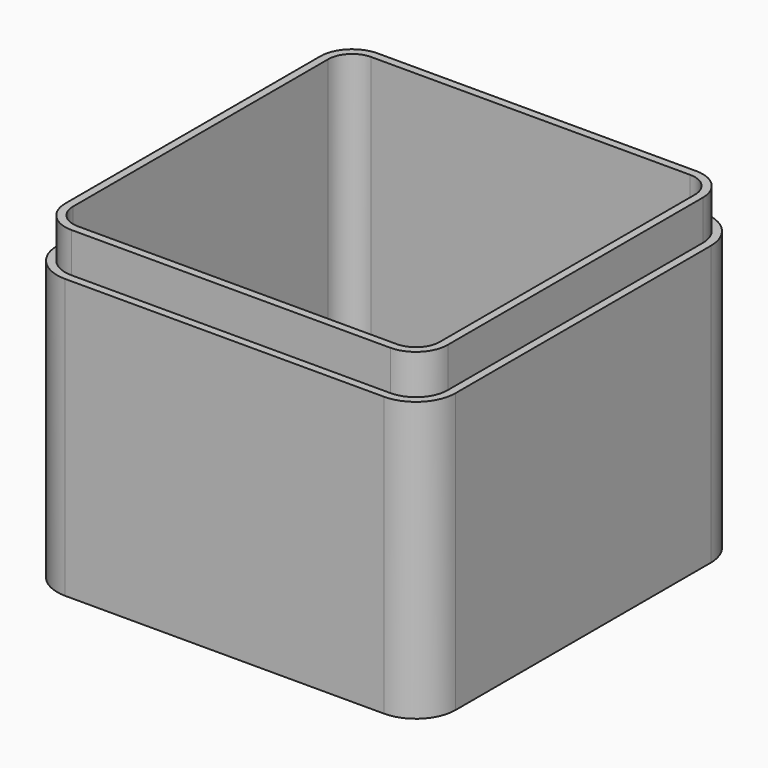
from build123d import *

# Parameters (mm, degrees)
SKETCH_W     = 100
SKETCH_H     = 100
PAD_DEPTH    = 80
FILLET_R     = 10
THICKNESS_T  = -4
POCKET_DEPTH = 10


with BuildPart() as part:
    # Sketch → Pad (new body)
    with BuildSketch(Plane.XY):
        with Locations((50, 50)):
            Rectangle(SKETCH_W, SKETCH_H)
    extrude(amount=PAD_DEPTH)

    # Fillet
    fillet_edges = [part.edges().sort_by_distance(p)[0] for p in [
        (0, 0, 40),
        (100, 0, 40),
        (100, 100, 40),
        (0, 100, 40),
    ]]
    fillet(fillet_edges, radius=FILLET_R)

    # Thickness
    thickness_openings = [part.faces().sort_by_distance(p)[0] for p in [
        (50, 50, 80),
    ]]
    offset(amount=THICKNESS_T, openings=thickness_openings, kind=Kind.INTERSECTION)

    # Sketch001 (on Face10 of Thickness) → Pocket (cut)
    with BuildSketch(Plane.XY.offset(80)):
        with BuildLine():
            Line((0, 90), (0, 10))
            ThreePointArc((0, 10), (2.928932, 2.928932), (10, 0))
            Line((10, 0), (90, 0))
            ThreePointArc((90, 0), (97.071068, 2.928932), (100, 10))
            Line((100, 10), (100, 90))
            ThreePointArc((100, 90), (97.071068, 97.071068), (90, 100))
            Line((90, 100), (10, 100))
            ThreePointArc((10, 100), (2.928932, 97.071068), (0, 90))
        make_face()
        with BuildLine():
            Line((2, 90), (2, 10))
            ThreePointArc((2, 10), (4.343146, 4.343146), (10, 2))
            Line((10, 2), (90, 2))
            ThreePointArc((90, 2), (95.656854, 4.343146), (98, 10))
            Line((98, 10), (98, 90))
            ThreePointArc((98, 90), (95.656854, 95.656854), (90, 98))
            Line((90, 98), (10, 98))
            ThreePointArc((10, 98), (4.343146, 95.656854), (2, 90))
        make_face(mode=Mode.SUBTRACT)
    extrude(amount=-POCKET_DEPTH, mode=Mode.SUBTRACT)


solid = part.part
